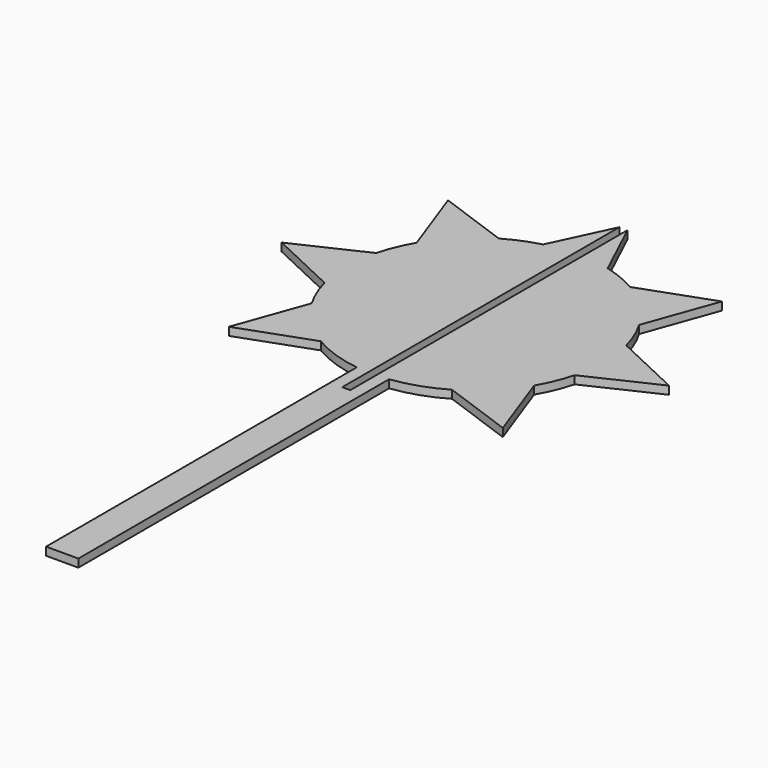
from build123d import *

# Parameters (mm, degrees)
F1_DEPTH = 3.175


with BuildPart() as f1:
    # F0 (on Top) → F1 (new body)
    with BuildSketch(Plane.XY):
        with BuildLine():
            Line((-6.35, 51.198438), (-6.35, -101.6))
            Line((-6.35, -101.6), (-1.5875, -101.6))
            Line((-1.5875, -101.6), (1.5875, -101.6))
            Line((1.5875, -101.6), (6.35, -101.6))
            Line((6.35, -101.6), (6.35, 51.198438))
            ThreePointArc((6.35, 51.198438), (16.414418, 53.524987), (25.800126, 57.839361))
            Line((25.800126, 57.839361), (53.881537, 47.718463))
            Line((53.881537, 47.718463), (43.760639, 75.799874))
            ThreePointArc((43.760639, 75.799874), (46.93308, 82.159682), (49.186888, 88.9))
            Line((49.186888, 88.9), (76.2, 101.6))
            Line((76.2, 101.6), (49.186888, 114.3))
            ThreePointArc((49.186888, 114.3), (46.93308, 121.040318), (43.760639, 127.400126))
            Line((43.760639, 127.400126), (53.881537, 155.481537))
            Line((53.881537, 155.481537), (25.800126, 145.360639))
            ThreePointArc((25.800126, 145.360639), (19.440318, 148.53308), (12.7, 150.786888))
            Line((12.7, 150.786888), (1.5875, 174.423361))
            Line((1.5875, 174.423361), (1.5875, 38.1))
            Line((1.5875, 38.1), (-1.5875, 38.1))
            Line((-1.5875, 38.1), (-1.5875, 174.423361))
            Line((-1.5875, 174.423361), (-12.7, 150.786888))
            ThreePointArc((-12.7, 150.786888), (-19.440318, 148.53308), (-25.800126, 145.360639))
            Line((-25.800126, 145.360639), (-53.881537, 155.481537))
            Line((-53.881537, 155.481537), (-43.760639, 127.400126))
            ThreePointArc((-43.760639, 127.400126), (-46.93308, 121.040318), (-49.186888, 114.3))
            Line((-49.186888, 114.3), (-76.2, 101.6))
            Line((-76.2, 101.6), (-49.186888, 88.9))
            ThreePointArc((-49.186888, 88.9), (-46.93308, 82.159682), (-43.760639, 75.799874))
            Line((-43.760639, 75.799874), (-53.881537, 47.718463))
            Line((-53.881537, 47.718463), (-25.800126, 57.839361))
            ThreePointArc((-25.800126, 57.839361), (-16.414418, 53.524987), (-6.35, 51.198438))
        make_face()
    extrude(amount=F1_DEPTH)


solid = f1.part
